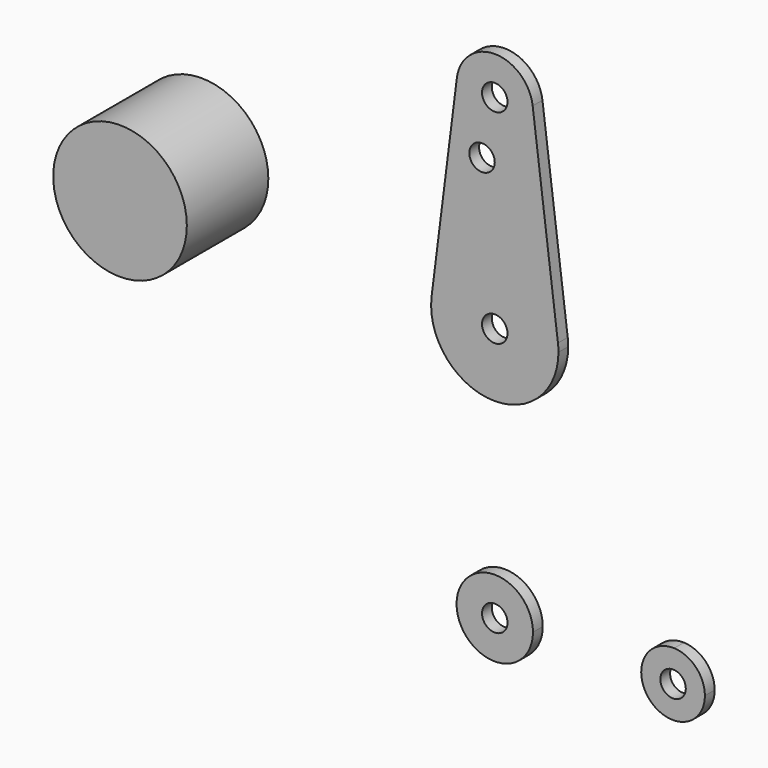
from build123d import *

# Parameters (mm, degrees)
F0_R     = 3.175
F1_DEPTH = 3.048
F2_R     = 16.658386
F3_DEPTH = 25.4


with BuildPart() as f1:
    # F0 (on Front) → F1 (new body)
    with BuildSketch(Plane.XZ):
        with BuildLine():
            ThreePointArc((-9.450293, 115.490625), (-0.596483, 104.793695), (9.525, 114.3))
            ThreePointArc((9.525, 114.3), (9.506305, 114.896483), (9.450293, 115.490625))
            ThreePointArc((9.450293, 115.490625), (0, 123.825), (-9.450293, 115.490625))
        make_face()
        with Locations((0, 114.3)):
            Circle(F0_R, mode=Mode.SUBTRACT)
        with BuildLine():
            ThreePointArc((9.450293, 115.490625), (9.506305, 114.896483), (9.525, 114.3))
            ThreePointArc((9.525, 114.3), (-0.596483, 104.793695), (-9.450293, 115.490625))
            Line((-9.450293, 115.490625), (-15.750488, 65.484375))
            ThreePointArc((-15.750488, 65.484375), (0, 79.375), (15.750488, 65.484375))
            Line((15.750488, 65.484375), (9.450293, 115.490625))
        make_face()
        with Locations((-3.175, 100.0252)):
            Circle(F0_R, mode=Mode.SUBTRACT)
        with BuildLine():
            ThreePointArc((15.875, 63.5), (15.843841, 64.494139), (15.750488, 65.484375))
            ThreePointArc((15.750488, 65.484375), (0, 79.375), (-15.750488, 65.484375))
            ThreePointArc((-15.750488, 65.484375), (-0.994139, 47.656159), (15.875, 63.5))
        make_face()
        with Locations((0, 63.5)):
            Circle(F0_R, mode=Mode.SUBTRACT)
        with BuildLine():
            ThreePointArc((0.677344, -9.500886), (6.970557, -6.491299), (9.525, 0))
            ThreePointArc((9.525, 0), (0, 9.525), (-9.525, 0))
            ThreePointArc((-9.525, 0), (-6.735192, -6.735192), (0, -9.525))
            Line((0, -9.525), (0.677344, -9.500886))
        make_face()
        Circle(F0_R, mode=Mode.SUBTRACT)
        with BuildLine():
            ThreePointArc((44.733482, 7.932436), (36.5125, 0.000539), (44.732405, -7.932475))
            ThreePointArc((44.732405, -7.932475), (50.161633, -5.51191), (52.3875, 0))
            ThreePointArc((52.3875, 0), (50.162007, 5.511523), (44.733482, 7.932436))
        make_face()
        with Locations((44.45, 0)):
            Circle(F0_R, mode=Mode.SUBTRACT)
        with BuildLine():
            ThreePointArc((0, -9.525), (0.338886, -9.51897), (0.677344, -9.500886))
            Line((0.677344, -9.500886), (0, -9.525))
        make_face()
    extrude(amount=F1_DEPTH)


with BuildPart() as f3:
    # F2 (on Front) → F3 (new body)
    with BuildSketch(Plane.XZ):
        with Locations((-75.551987, 76.062046)):
            Circle(F2_R)
    extrude(amount=F3_DEPTH)


solid = Compound([f1.part, f3.part])
